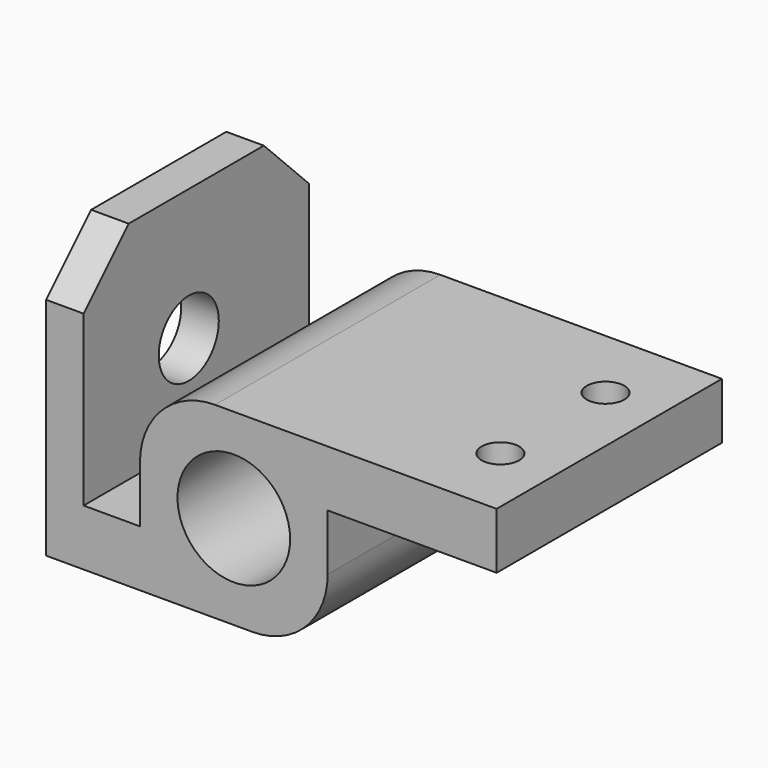
from build123d import *

# Parameters (mm, degrees)
F0_R     = 15
F0_W     = 10
F0_H     = 15
F1_DEPTH = 75
F2_R     = 5
F3_DEPTH = 50.001
F4_R     = 10
F5_DEPTH = 10.001


with BuildPart() as f1:
    # F0 (on Front) → F1 (new body)
    with BuildSketch(Plane.XZ):
        with BuildLine():
            Line((60, -2.5), (60, 12.5))
            Line((60, 12.5), (-15, 12.5))
            ThreePointArc((-15, 12.5), (-29.142136, 6.642136), (-35, -7.5))
            Line((-35, -7.5), (-35, -22.5))
            Line((-35, -22.5), (-50, -22.5))
            Line((-50, -22.5), (-50, -37.5))
            Line((-50, -37.5), (-5, -37.5))
            ThreePointArc((-5, -37.5), (9.142136, -31.642136), (15, -17.5))
            Line((15, -17.5), (15, -2.5))
            Line((15, -2.5), (60, -2.5))
        make_face()
        with Locations((-10, -12.5)):
            Circle(F0_R, mode=Mode.SUBTRACT)
        Polygon((-50, -22.5), (-50, 22.5), (-60, 22.5), (-60, -37.5), (-50, -37.5), align=None)
        with Locations((-55, 30)):
            Rectangle(F0_W, F0_H)
    extrude(amount=F1_DEPTH)

    # F2 (on face) → F3 (cut, through all)
    with BuildSketch(Plane.XY.offset(12.5)):
        with Locations((45, -20)):
            Circle(F2_R)
        with Locations((45, -55)):
            Circle(F2_R)
    extrude(amount=-F3_DEPTH, mode=Mode.SUBTRACT)

    # F4 (on face) → F5 (cut, through all)
    with BuildSketch(Plane.YZ.offset(-50)):
        with Locations((-40, 2.5)):
            Circle(F4_R)
        Polygon((-75, 37.5), (-75, 22.5), (-60, 37.5), align=None)
        Polygon((0, 37.5), (-15, 37.5), (0, 22.5), align=None)
    extrude(amount=-F5_DEPTH, mode=Mode.SUBTRACT)


solid = f1.part
